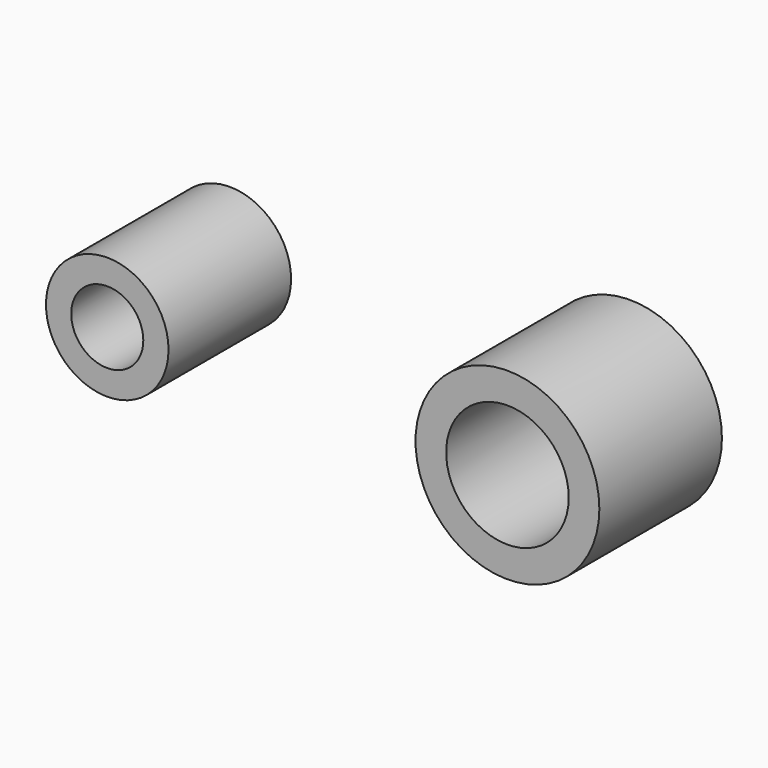
from build123d import *

# Parameters (mm, degrees)
F0_R     = 10
F0_R_2   = 5.882176
F0_R_3   = 15
F1_DEPTH = 25


with BuildPart() as f1:
    # F0 (on Front) → F1 (new body)
    with BuildSketch(Plane.XZ):
        with Locations((-29.54972, 0)):
            Circle(F0_R)
        with Locations((-29.54972, 0)):
            Circle(F0_R_2, mode=Mode.SUBTRACT)
        with Locations((35.755165, 0)):
            Circle(F0_R_3)
        with Locations((35.755165, 0)):
            Circle(F0_R, mode=Mode.SUBTRACT)
    extrude(amount=F1_DEPTH)


solid = f1.part
